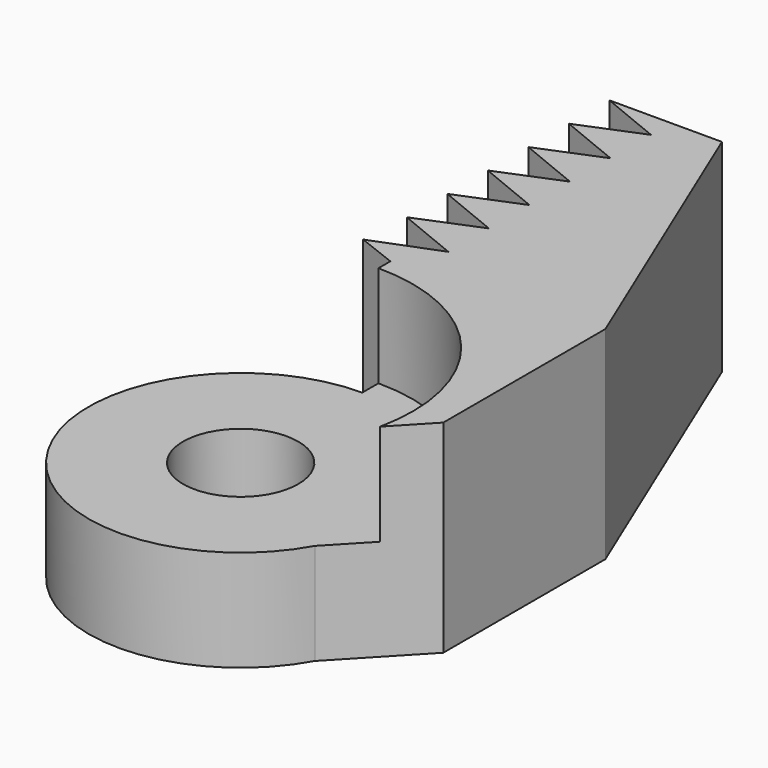
from build123d import *

# Parameters (mm, degrees)
F1_DEPTH      = 127
F3_DEPTH      = 127
F5_DEPTH      = 127
F5_DEPTH_BACK = 127
F6_R          = 72.1706207076
F7_DEPTH      = 266.7


with BuildPart() as f1:
    # F0 (on Top) → F1 (new body)
    with BuildSketch(Plane.XY):
        with BuildLine():
            Line((0, 233.7793111801), (0, 190.5))
            ThreePointArc((0, 190.5), (-164.1023944599, -96.7504735519), (166.6875, -92.2254159316))
            Line((166.6875, -92.2254159316), (254, 0))
            Line((254, 0), (254, 254))
            Line((254, 254), (95.25, 635))
            Line((95.25, 635), (31.75, 635))
            Line((31.75, 635), (31.75, 254))
            Line((31.75, 254), (0, 233.7793111801))
        make_face()
    extrude(amount=F1_DEPTH)

    # F2 (on face) → F3 (join)
    with BuildSketch(Plane.XY.offset(127)):
        with BuildLine():
            ThreePointArc((0, 215.9), (167.9266235199, 135.696201543), (211.0885127336, -45.3260387846))
            Line((211.0885127336, -45.3260387846), (254, 0))
            Line((254, 0), (254, 254))
            Line((254, 254), (95.25, 635))
            Line((95.25, 635), (31.75, 635))
            Line((31.75, 635), (31.75, 254))
            Line((31.75, 254), (0, 233.7793111801))
            Line((0, 233.7793111801), (0, 215.9))
        make_face()
    extrude(amount=F3_DEPTH)

    # F4 (on face) → F5 (join, two sides)
    with BuildSketch(Plane.XY.offset(127)) as f5_sk:
        Polygon((31.75, 539.75), (31.75, 603.25), (-45.7682893979, 571.5), align=None)
        Polygon((31.75, 254.0089488029), (31.75, 285.75), (-49.6154587908, 254), (31.75, 222.25), align=None)
        Polygon((31.75, 285.75), (31.75, 349.25), (-45.7682893979, 317.5), align=None)
        Polygon((31.75, 349.25), (31.75, 412.75), (-45.7682893979, 381), align=None)
        Polygon((31.75, 412.75), (31.75, 476.25), (-45.7682893979, 444.5), align=None)
        Polygon((31.75, 476.25), (31.75, 539.75), (-45.7682893979, 508), align=None)
        Polygon((-45.7682893979, 635), (31.75, 603.25), (31.75, 635), align=None)
    extrude(amount=-F5_DEPTH)
    extrude(f5_sk.sketch, amount=F5_DEPTH_BACK)

    # F6 (on face) → F7 (cut)
    with BuildSketch(Plane.XY.offset(127)):
        Circle(F6_R)
    extrude(amount=-F7_DEPTH, mode=Mode.SUBTRACT)


solid = f1.part
